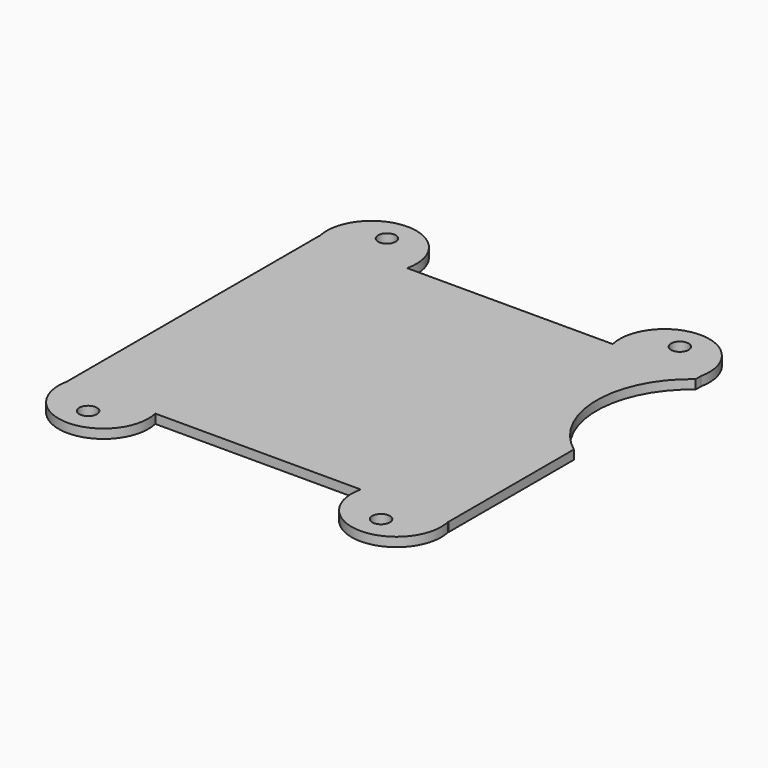
from build123d import *

# Parameters (mm, degrees)
F0_R     = 1.2
F1_DEPTH = 1.25


with BuildPart() as f1:
    # F0 (on Top) → F1 (new body)
    with BuildSketch(Plane.XY):
        with BuildLine():
            Line((26, 21.5), (26, 21.643893))
            ThreePointArc((26, 21.643893), (19.926368, 28.999557), (14.031332, 21.5))
            Line((14.031332, 21.5), (-14.031332, 21.5))
            ThreePointArc((-14.031332, 21.5), (-20, 29), (-25.968668, 21.5))
            Line((-25.968668, 21.5), (-26, 21.5))
            Line((-26, 21.5), (-26, -21.5))
            Line((-26, -21.5), (-25.968668, -21.5))
            ThreePointArc((-25.968668, -21.5), (-20, -29), (-14.031332, -21.5))
            Line((-14.031332, -21.5), (14.031332, -21.5))
            ThreePointArc((14.031332, -21.5), (20, -29), (25.968668, -21.5))
            Line((25.968668, -21.5), (26, -21.5))
            Line((26, -21.5), (26, -0.1))
            ThreePointArc((26, -0.1), (20.8, 10.3), (26, 20.7))
            Line((26, 20.7), (26, 21.5))
        make_face()
        with Locations((-20, -25.5)):
            Circle(F0_R, mode=Mode.SUBTRACT)
        with Locations((20, -25.5)):
            Circle(F0_R, mode=Mode.SUBTRACT)
        with Locations((-20, 25.5)):
            Circle(F0_R, mode=Mode.SUBTRACT)
        with Locations((20, 25.5)):
            Circle(F0_R, mode=Mode.SUBTRACT)
    extrude(amount=F1_DEPTH)


solid = f1.part
